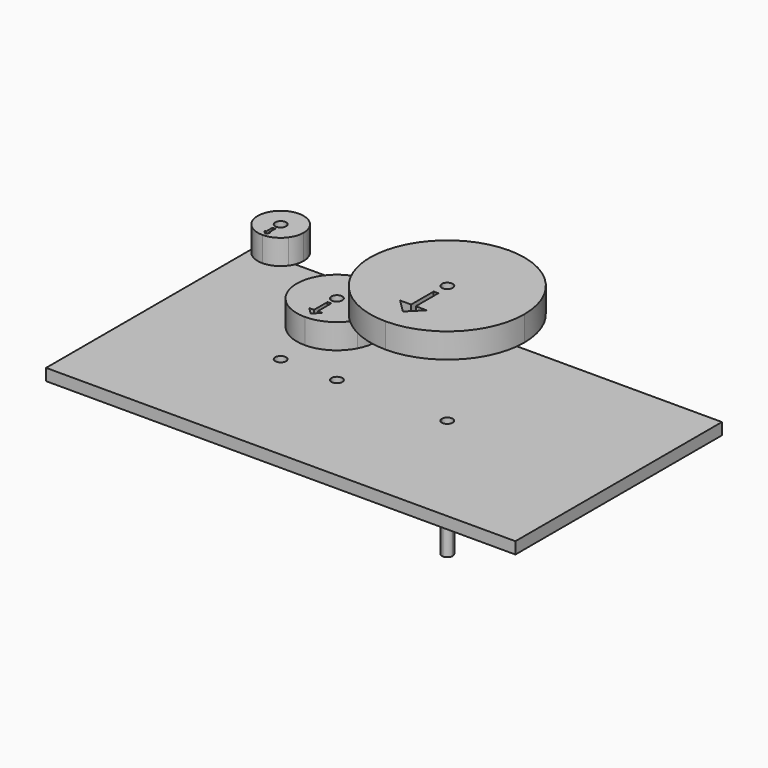
from build123d import *

# Parameters (mm, degrees)
F0_W     = 127
F0_H     = 69.85
F0_W_2   = 0.381
F0_H_2   = 2.1499743879
F0_W_3   = 0.508
F0_H_3   = 4.5539487758
F0_W_4   = 0.635
F0_H_4   = 7.6400852611
F1_DEPTH = 3.175
F2_START = 25.4
F2_DEPTH = 6.731
F3_START = 25.4
F3_DEPTH = 6.731
F4_START = 12.7
F4_DEPTH = 6.731
F5_START = -6.35
F5_DEPTH = 25.4


with BuildPart() as f1:
    # F0 (on Top) → F1 (new body)
    with BuildSketch(Plane.XY):
        with Locations((-6.0705711842, 4.3084023254)):
            Rectangle(F0_W, F0_H)
        with BuildLine():
            ThreePointArc((-33.3352696088, -2.7570773477), (-38.8647330515, 6.2396796318), (-28.3404857607, 7.1096342711))
            ThreePointArc((-28.3404857607, 7.1096342711), (-18.8470887176, 14.2746971722), (-8.4821471598, 8.4411133425))
            ThreePointArc((-8.4821471598, 8.4411133425), (14.2684886182, 24.1284571428), (32.5904303912, 3.4405226523))
            ThreePointArc((32.5904303912, 3.4405226523), (26.4863306859, -11.2960776424), (11.7497303912, -17.4001773477))
            ThreePointArc((11.7497303912, -17.4001773477), (-1.0978173533, -12.9690871372), (-8.4821471598, -1.5600680379))
            ThreePointArc((-8.4821471598, -1.5600680379), (-12.4811612862, -5.8386458519), (-18.1206696088, -7.4179773477))
            ThreePointArc((-18.1206696088, -7.4179773477), (-24.3683081122, -5.4405828747), (-28.3404857607, -0.2285889665))
            ThreePointArc((-28.3404857607, -0.2285889665), (-30.5361126293, -2.0889407904), (-33.3352696088, -2.7570773477))
        make_face(mode=Mode.SUBTRACT)
        with BuildLine():
            Line((10.2765303912, 3.4405226523), (-7.2621696088, 3.4405226523))
            ThreePointArc((-7.2621696088, 3.4405226523), (-7.5715720582, 0.8668942566), (-8.4821471598, -1.5600680379))
            ThreePointArc((-8.4821471598, -1.5600680379), (-1.0978173533, -12.9690871372), (11.7497303912, -17.4001773477))
            Line((11.7497303912, -17.4001773477), (11.7497303912, -11.6016650572))
            Line((11.7497303912, -11.6016650572), (11.1147303912, -11.6016650572))
            Line((11.1147303912, -11.6016650572), (11.1147303912, -10.9666650572))
            Line((11.1147303912, -10.9666650572), (8.1576279428, -8.0095626088))
            Line((8.1576279428, -8.0095626088), (11.1147303912, -8.0095626088))
            Line((11.1147303912, -8.0095626088), (11.1147303912, -0.3694773477))
            Line((11.1147303912, -0.3694773477), (11.7497303912, -0.3694773477))
            Line((11.7497303912, -0.3694773477), (11.7497303912, 1.9673226523))
            ThreePointArc((11.7497303912, 1.9673226523), (10.7080206812, 2.3988129423), (10.2765303912, 3.4405226523))
        make_face()
        with BuildLine():
            ThreePointArc((32.5904303912, 3.4405226523), (14.2684886182, 24.1284571428), (-8.4821471598, 8.4411133425))
            ThreePointArc((-8.4821471598, 8.4411133425), (-7.5715720582, 6.0141510479), (-7.2621696088, 3.4405226523))
            Line((-7.2621696088, 3.4405226523), (10.2765303912, 3.4405226523))
            ThreePointArc((10.2765303912, 3.4405226523), (11.7497303912, 4.9137226523), (13.2229303912, 3.4405226523))
            ThreePointArc((13.2229303912, 3.4405226523), (12.7914401012, 2.3988129423), (11.7497303912, 1.9673226523))
            Line((11.7497303912, 1.9673226523), (11.7497303912, -0.3694773477))
            Line((11.7497303912, -0.3694773477), (12.3847303912, -0.3694773477))
            Line((12.3847303912, -0.3694773477), (12.3847303912, -8.0095626088))
            Line((12.3847303912, -8.0095626088), (15.3418328396, -8.0095626088))
            Line((15.3418328396, -8.0095626088), (12.3847303912, -10.9666650572))
            Line((12.3847303912, -10.9666650572), (12.3847303912, -11.6016650572))
            Line((12.3847303912, -11.6016650572), (11.7497303912, -11.6016650572))
            Line((11.7497303912, -11.6016650572), (11.7497303912, -17.4001773477))
            ThreePointArc((11.7497303912, -17.4001773477), (26.4863306859, -11.2960776424), (32.5904303912, 3.4405226523))
        make_face()
        with BuildLine():
            ThreePointArc((-28.3404857607, 7.1096342711), (-27.4460456303, 5.3711408672), (-27.1376696088, 3.4405226523))
            Line((-27.1376696088, 3.4405226523), (-19.5938696088, 3.4405226523))
            ThreePointArc((-19.5938696088, 3.4405226523), (-18.1206696088, 4.9137226523), (-16.6474696088, 3.4405226523))
            Line((-16.6474696088, 3.4405226523), (-9.0909696088, 3.4405226523))
            ThreePointArc((-9.0909696088, 3.4405226523), (-8.9382040993, 5.9592808793), (-8.4821471598, 8.4411133425))
            ThreePointArc((-8.4821471598, 8.4411133425), (-18.8470887176, 14.2746971722), (-28.3404857607, 7.1096342711))
        make_face()
        with BuildLine():
            ThreePointArc((-33.3352696088, 1.9673226523), (-34.3769793188, 4.4822323623), (-31.8620696088, 3.4405226523))
            Line((-31.8620696088, 3.4405226523), (-28.9791696088, 3.4405226523))
            ThreePointArc((-28.9791696088, 3.4405226523), (-28.8183071035, 5.3026650427), (-28.3404857607, 7.1096342711))
            ThreePointArc((-28.3404857607, 7.1096342711), (-38.8647330515, 6.2396796318), (-33.3352696088, -2.7570773477))
            Line((-33.3352696088, -2.7570773477), (-33.3352696088, -1.8934773477))
            Line((-33.3352696088, -1.8934773477), (-33.3352696088, -1.8828803738))
            Line((-33.3352696088, -1.8828803738), (-34.222698247, -0.9954517356))
            Line((-34.222698247, -0.9954517356), (-33.7162696088, -0.9954517356))
            Line((-33.7162696088, -0.9954517356), (-33.7162696088, 1.1545226523))
            Line((-33.7162696088, 1.1545226523), (-33.3352696088, 1.1545226523))
            Line((-33.3352696088, 1.1545226523), (-33.3352696088, 1.9673226523))
        make_face()
        with BuildLine():
            Line((-28.9791696088, 3.4405226523), (-31.8620696088, 3.4405226523))
            ThreePointArc((-31.8620696088, 3.4405226523), (-32.2935598988, 2.3988129423), (-33.3352696088, 1.9673226523))
            Line((-33.3352696088, 1.9673226523), (-33.3352696088, 1.1545226523))
            Line((-33.3352696088, 1.1545226523), (-32.9542696088, 1.1545226523))
            Line((-32.9542696088, 1.1545226523), (-32.9542696088, -0.9954517356))
            Line((-32.9542696088, -0.9954517356), (-32.4266470228, -0.9954517356))
            Line((-32.4266470228, -0.9954517356), (-32.9542696088, -1.5230743216))
            Line((-32.9542696088, -1.5230743216), (-32.9542696088, -1.8934773477))
            Line((-32.9542696088, -1.8934773477), (-33.3246726349, -1.8934773477))
            Line((-33.3246726349, -1.8934773477), (-33.3352696088, -1.8934773477))
            Line((-33.3352696088, -1.8934773477), (-33.3352696088, -2.7570773477))
            ThreePointArc((-33.3352696088, -2.7570773477), (-30.5361126293, -2.0889407904), (-28.3404857607, -0.2285889665))
            ThreePointArc((-28.3404857607, -0.2285889665), (-28.8183071035, 1.5783802619), (-28.9791696088, 3.4405226523))
        make_face()
        with BuildLine():
            Line((-27.1376696088, 3.4405226523), (-28.9791696088, 3.4405226523))
            ThreePointArc((-28.9791696088, 3.4405226523), (-28.8183071035, 1.5783802619), (-28.3404857607, -0.2285889665))
            ThreePointArc((-28.3404857607, -0.2285889665), (-27.4460456303, 1.5099044374), (-27.1376696088, 3.4405226523))
        make_face()
        with BuildLine():
            ThreePointArc((-28.3404857607, 7.1096342711), (-28.8183071035, 5.3026650427), (-28.9791696088, 3.4405226523))
            Line((-28.9791696088, 3.4405226523), (-27.1376696088, 3.4405226523))
            ThreePointArc((-27.1376696088, 3.4405226523), (-27.4460456303, 5.3711408672), (-28.3404857607, 7.1096342711))
        make_face()
        with BuildLine():
            Line((-7.2621696088, 3.4405226523), (-9.0909696088, 3.4405226523))
            ThreePointArc((-9.0909696088, 3.4405226523), (-8.9382040993, 0.9217644253), (-8.4821471598, -1.5600680379))
            ThreePointArc((-8.4821471598, -1.5600680379), (-7.5715720582, 0.8668942566), (-7.2621696088, 3.4405226523))
        make_face()
        with BuildLine():
            ThreePointArc((-7.2621696088, 3.4405226523), (-7.5715720582, 6.0141510479), (-8.4821471598, 8.4411133425))
            ThreePointArc((-8.4821471598, 8.4411133425), (-8.9382040993, 5.9592808793), (-9.0909696088, 3.4405226523))
            Line((-9.0909696088, 3.4405226523), (-7.2621696088, 3.4405226523))
        make_face()
        with Locations((-33.5257696088, 0.0795354583)):
            Rectangle(F0_W_2, F0_H_2)
        Polygon((-33.3352696088, -1.8828803738), (-33.3352696088, -0.9954517356), (-33.7162696088, -0.9954517356), (-34.222698247, -0.9954517356), align=None)
        with Locations((-33.1447696088, 0.0795354583)):
            Rectangle(F0_W_2, F0_H_2)
        Polygon((-32.9542696088, -0.9954517356), (-33.3352696088, -0.9954517356), (-33.3352696088, -1.8828803738), (-33.3246726349, -1.8934773477), (-32.9542696088, -1.5230743216), align=None)
        Polygon((-32.4266470228, -0.9954517356), (-32.9542696088, -0.9954517356), (-32.9542696088, -1.5230743216), align=None)
        Polygon((-32.9542696088, -1.5230743216), (-33.3246726349, -1.8934773477), (-32.9542696088, -1.8934773477), align=None)
        with BuildLine():
            Line((-28.9791696088, 3.4405226523), (-31.8620696088, 3.4405226523))
            ThreePointArc((-31.8620696088, 3.4405226523), (-32.2935598988, 2.3988129423), (-33.3352696088, 1.9673226523))
            Line((-33.3352696088, 1.9673226523), (-33.3352696088, 1.1545226523))
            Line((-33.3352696088, 1.1545226523), (-32.9542696088, 1.1545226523))
            Line((-32.9542696088, 1.1545226523), (-32.9542696088, -0.9954517356))
            Line((-32.9542696088, -0.9954517356), (-32.4266470228, -0.9954517356))
            Line((-32.4266470228, -0.9954517356), (-32.9542696088, -1.5230743216))
            Line((-32.9542696088, -1.5230743216), (-32.9542696088, -1.8934773477))
            Line((-32.9542696088, -1.8934773477), (-33.3246726349, -1.8934773477))
            Line((-33.3246726349, -1.8934773477), (-33.3352696088, -1.8934773477))
            Line((-33.3352696088, -1.8934773477), (-33.3352696088, -2.7570773477))
            ThreePointArc((-33.3352696088, -2.7570773477), (-30.5361126293, -2.0889407904), (-28.3404857607, -0.2285889665))
            ThreePointArc((-28.3404857607, -0.2285889665), (-28.8183071035, 1.5783802619), (-28.9791696088, 3.4405226523))
        make_face()
        with BuildLine():
            Line((-18.1206696088, -5.4494773477), (-18.1206696088, -7.4179773477))
            ThreePointArc((-18.1206696088, -7.4179773477), (-12.4811612862, -5.8386458519), (-8.4821471598, -1.5600680379))
            ThreePointArc((-8.4821471598, -1.5600680379), (-8.9382040993, 0.9217644253), (-9.0909696088, 3.4405226523))
            Line((-9.0909696088, 3.4405226523), (-16.6474696088, 3.4405226523))
            ThreePointArc((-16.6474696088, 3.4405226523), (-17.0789598988, 2.3988129423), (-18.1206696088, 1.9673226523))
            Line((-18.1206696088, 1.9673226523), (-18.1206696088, 0.9005226523))
            Line((-18.1206696088, 0.9005226523), (-17.6126696088, 0.9005226523))
            Line((-17.6126696088, 0.9005226523), (-17.6126696088, -3.6534261235))
            Line((-17.6126696088, -3.6534261235), (-16.3246183846, -3.6534261235))
            Line((-16.3246183846, -3.6534261235), (-17.6126696088, -4.9414773477))
            Line((-17.6126696088, -4.9414773477), (-17.6126696088, -5.4494773477))
            Line((-17.6126696088, -5.4494773477), (-18.1206696088, -5.4494773477))
        make_face()
        with Locations((-18.3746696088, -1.3764517356)):
            Rectangle(F0_W_3, F0_H_3)
        with Locations((-17.8666696088, -1.3764517356)):
            Rectangle(F0_W_3, F0_H_3)
        Polygon((-19.916720833, -3.6534261235), (-18.6286696088, -4.9414773477), (-18.6286696088, -3.6534261235), align=None)
        Polygon((-18.6286696088, -4.9414773477), (-18.1206696088, -5.4494773477), (-18.1206696088, -3.6534261235), (-18.6286696088, -3.6534261235), align=None)
        Polygon((-18.1206696088, -3.6534261235), (-18.1206696088, -5.4494773477), (-17.6126696088, -4.9414773477), (-17.6126696088, -3.6534261235), align=None)
        Polygon((-17.6126696088, -3.6534261235), (-17.6126696088, -4.9414773477), (-16.3246183846, -3.6534261235), align=None)
        Polygon((-17.6126696088, -4.9414773477), (-18.1206696088, -5.4494773477), (-17.6126696088, -5.4494773477), align=None)
        Polygon((-18.6286696088, -5.4494773477), (-18.1206696088, -5.4494773477), (-18.6286696088, -4.9414773477), align=None)
        with BuildLine():
            Line((-19.5938696088, 3.4405226523), (-27.1376696088, 3.4405226523))
            ThreePointArc((-27.1376696088, 3.4405226523), (-27.4460456303, 1.5099044374), (-28.3404857607, -0.2285889665))
            ThreePointArc((-28.3404857607, -0.2285889665), (-24.3683081122, -5.4405828747), (-18.1206696088, -7.4179773477))
            Line((-18.1206696088, -7.4179773477), (-18.1206696088, -5.4494773477))
            Line((-18.1206696088, -5.4494773477), (-18.6286696088, -5.4494773477))
            Line((-18.6286696088, -5.4494773477), (-18.6286696088, -4.9414773477))
            Line((-18.6286696088, -4.9414773477), (-19.916720833, -3.6534261235))
            Line((-19.916720833, -3.6534261235), (-18.6286696088, -3.6534261235))
            Line((-18.6286696088, -3.6534261235), (-18.6286696088, 0.9005226523))
            Line((-18.6286696088, 0.9005226523), (-18.1206696088, 0.9005226523))
            Line((-18.1206696088, 0.9005226523), (-18.1206696088, 1.9673226523))
            ThreePointArc((-18.1206696088, 1.9673226523), (-19.1623793188, 2.3988129423), (-19.5938696088, 3.4405226523))
        make_face()
        Polygon((11.7497303912, -8.0095626088), (11.7497303912, -11.6016650572), (12.3847303912, -10.9666650572), (12.3847303912, -8.0095626088), align=None)
        Polygon((12.3847303912, -8.0095626088), (12.3847303912, -10.9666650572), (15.3418328396, -8.0095626088), align=None)
        Polygon((11.1147303912, -10.9666650572), (11.7497303912, -11.6016650572), (11.7497303912, -8.0095626088), (11.1147303912, -8.0095626088), align=None)
        Polygon((8.1576279428, -8.0095626088), (11.1147303912, -10.9666650572), (11.1147303912, -8.0095626088), align=None)
        with Locations((12.0672303912, -4.1895199783)):
            Rectangle(F0_W_4, F0_H_4)
        with Locations((11.4322303912, -4.1895199783)):
            Rectangle(F0_W_4, F0_H_4)
        Polygon((12.3847303912, -10.9666650572), (11.7497303912, -11.6016650572), (12.3847303912, -11.6016650572), align=None)
        Polygon((11.1147303912, -11.6016650572), (11.7497303912, -11.6016650572), (11.1147303912, -10.9666650572), align=None)
    extrude(amount=-F1_DEPTH)


with BuildPart() as f2:
    # F0 (on Top) → F2 (new body)
    with BuildSketch(Plane.XY.offset(F2_START)):
        with BuildLine():
            Line((10.2765303912, 3.4405226523), (-7.2621696088, 3.4405226523))
            ThreePointArc((-7.2621696088, 3.4405226523), (-7.5715720582, 0.8668942566), (-8.4821471598, -1.5600680379))
            ThreePointArc((-8.4821471598, -1.5600680379), (-1.0978173533, -12.9690871372), (11.7497303912, -17.4001773477))
            Line((11.7497303912, -17.4001773477), (11.7497303912, -11.6016650572))
            Line((11.7497303912, -11.6016650572), (11.1147303912, -11.6016650572))
            Line((11.1147303912, -11.6016650572), (11.1147303912, -10.9666650572))
            Line((11.1147303912, -10.9666650572), (8.1576279428, -8.0095626088))
            Line((8.1576279428, -8.0095626088), (11.1147303912, -8.0095626088))
            Line((11.1147303912, -8.0095626088), (11.1147303912, -0.3694773477))
            Line((11.1147303912, -0.3694773477), (11.7497303912, -0.3694773477))
            Line((11.7497303912, -0.3694773477), (11.7497303912, 1.9673226523))
            ThreePointArc((11.7497303912, 1.9673226523), (10.7080206812, 2.3988129423), (10.2765303912, 3.4405226523))
        make_face()
        with BuildLine():
            Line((-7.2621696088, 3.4405226523), (-9.0909696088, 3.4405226523))
            ThreePointArc((-9.0909696088, 3.4405226523), (-8.9382040993, 0.9217644253), (-8.4821471598, -1.5600680379))
            ThreePointArc((-8.4821471598, -1.5600680379), (-7.5715720582, 0.8668942566), (-7.2621696088, 3.4405226523))
        make_face()
        with BuildLine():
            ThreePointArc((-7.2621696088, 3.4405226523), (-7.5715720582, 6.0141510479), (-8.4821471598, 8.4411133425))
            ThreePointArc((-8.4821471598, 8.4411133425), (-8.9382040993, 5.9592808793), (-9.0909696088, 3.4405226523))
            Line((-9.0909696088, 3.4405226523), (-7.2621696088, 3.4405226523))
        make_face()
        Polygon((12.3847303912, -10.9666650572), (11.7497303912, -11.6016650572), (12.3847303912, -11.6016650572), align=None)
        Polygon((11.1147303912, -11.6016650572), (11.7497303912, -11.6016650572), (11.1147303912, -10.9666650572), align=None)
        with BuildLine():
            ThreePointArc((32.5904303912, 3.4405226523), (14.2684886182, 24.1284571428), (-8.4821471598, 8.4411133425))
            ThreePointArc((-8.4821471598, 8.4411133425), (-7.5715720582, 6.0141510479), (-7.2621696088, 3.4405226523))
            Line((-7.2621696088, 3.4405226523), (10.2765303912, 3.4405226523))
            ThreePointArc((10.2765303912, 3.4405226523), (11.7497303912, 4.9137226523), (13.2229303912, 3.4405226523))
            ThreePointArc((13.2229303912, 3.4405226523), (12.7914401012, 2.3988129423), (11.7497303912, 1.9673226523))
            Line((11.7497303912, 1.9673226523), (11.7497303912, -0.3694773477))
            Line((11.7497303912, -0.3694773477), (12.3847303912, -0.3694773477))
            Line((12.3847303912, -0.3694773477), (12.3847303912, -8.0095626088))
            Line((12.3847303912, -8.0095626088), (15.3418328396, -8.0095626088))
            Line((15.3418328396, -8.0095626088), (12.3847303912, -10.9666650572))
            Line((12.3847303912, -10.9666650572), (12.3847303912, -11.6016650572))
            Line((12.3847303912, -11.6016650572), (11.7497303912, -11.6016650572))
            Line((11.7497303912, -11.6016650572), (11.7497303912, -17.4001773477))
            ThreePointArc((11.7497303912, -17.4001773477), (26.4863306859, -11.2960776424), (32.5904303912, 3.4405226523))
        make_face()
    extrude(amount=F2_DEPTH)


with BuildPart() as f3:
    # F0 (on Top) → F3 (new body)
    with BuildSketch(Plane.XY.offset(F3_START)):
        with BuildLine():
            ThreePointArc((-28.3404857607, 7.1096342711), (-28.8183071035, 5.3026650427), (-28.9791696088, 3.4405226523))
            Line((-28.9791696088, 3.4405226523), (-27.1376696088, 3.4405226523))
            ThreePointArc((-27.1376696088, 3.4405226523), (-27.4460456303, 5.3711408672), (-28.3404857607, 7.1096342711))
        make_face()
        with BuildLine():
            Line((-27.1376696088, 3.4405226523), (-28.9791696088, 3.4405226523))
            ThreePointArc((-28.9791696088, 3.4405226523), (-28.8183071035, 1.5783802619), (-28.3404857607, -0.2285889665))
            ThreePointArc((-28.3404857607, -0.2285889665), (-27.4460456303, 1.5099044374), (-27.1376696088, 3.4405226523))
        make_face()
        with BuildLine():
            ThreePointArc((-33.3352696088, 1.9673226523), (-34.3769793188, 4.4822323623), (-31.8620696088, 3.4405226523))
            Line((-31.8620696088, 3.4405226523), (-28.9791696088, 3.4405226523))
            ThreePointArc((-28.9791696088, 3.4405226523), (-28.8183071035, 5.3026650427), (-28.3404857607, 7.1096342711))
            ThreePointArc((-28.3404857607, 7.1096342711), (-38.8647330515, 6.2396796318), (-33.3352696088, -2.7570773477))
            Line((-33.3352696088, -2.7570773477), (-33.3352696088, -1.8934773477))
            Line((-33.3352696088, -1.8934773477), (-33.3352696088, -1.8828803738))
            Line((-33.3352696088, -1.8828803738), (-34.222698247, -0.9954517356))
            Line((-34.222698247, -0.9954517356), (-33.7162696088, -0.9954517356))
            Line((-33.7162696088, -0.9954517356), (-33.7162696088, 1.1545226523))
            Line((-33.7162696088, 1.1545226523), (-33.3352696088, 1.1545226523))
            Line((-33.3352696088, 1.1545226523), (-33.3352696088, 1.9673226523))
        make_face()
        Polygon((-32.9542696088, -1.5230743216), (-33.3246726349, -1.8934773477), (-32.9542696088, -1.8934773477), align=None)
        with BuildLine():
            Line((-28.9791696088, 3.4405226523), (-31.8620696088, 3.4405226523))
            ThreePointArc((-31.8620696088, 3.4405226523), (-32.2935598988, 2.3988129423), (-33.3352696088, 1.9673226523))
            Line((-33.3352696088, 1.9673226523), (-33.3352696088, 1.1545226523))
            Line((-33.3352696088, 1.1545226523), (-32.9542696088, 1.1545226523))
            Line((-32.9542696088, 1.1545226523), (-32.9542696088, -0.9954517356))
            Line((-32.9542696088, -0.9954517356), (-32.4266470228, -0.9954517356))
            Line((-32.4266470228, -0.9954517356), (-32.9542696088, -1.5230743216))
            Line((-32.9542696088, -1.5230743216), (-32.9542696088, -1.8934773477))
            Line((-32.9542696088, -1.8934773477), (-33.3246726349, -1.8934773477))
            Line((-33.3246726349, -1.8934773477), (-33.3352696088, -1.8934773477))
            Line((-33.3352696088, -1.8934773477), (-33.3352696088, -2.7570773477))
            ThreePointArc((-33.3352696088, -2.7570773477), (-30.5361126293, -2.0889407904), (-28.3404857607, -0.2285889665))
            ThreePointArc((-28.3404857607, -0.2285889665), (-28.8183071035, 1.5783802619), (-28.9791696088, 3.4405226523))
        make_face()
    extrude(amount=F3_DEPTH)


with BuildPart() as f4:
    # F0 (on Top) → F4 (new body)
    with BuildSketch(Plane.XY.offset(F4_START)):
        with BuildLine():
            ThreePointArc((-7.2621696088, 3.4405226523), (-7.5715720582, 6.0141510479), (-8.4821471598, 8.4411133425))
            ThreePointArc((-8.4821471598, 8.4411133425), (-8.9382040993, 5.9592808793), (-9.0909696088, 3.4405226523))
            Line((-9.0909696088, 3.4405226523), (-7.2621696088, 3.4405226523))
        make_face()
        with BuildLine():
            Line((-7.2621696088, 3.4405226523), (-9.0909696088, 3.4405226523))
            ThreePointArc((-9.0909696088, 3.4405226523), (-8.9382040993, 0.9217644253), (-8.4821471598, -1.5600680379))
            ThreePointArc((-8.4821471598, -1.5600680379), (-7.5715720582, 0.8668942566), (-7.2621696088, 3.4405226523))
        make_face()
        with BuildLine():
            ThreePointArc((-28.3404857607, 7.1096342711), (-27.4460456303, 5.3711408672), (-27.1376696088, 3.4405226523))
            Line((-27.1376696088, 3.4405226523), (-19.5938696088, 3.4405226523))
            ThreePointArc((-19.5938696088, 3.4405226523), (-18.1206696088, 4.9137226523), (-16.6474696088, 3.4405226523))
            Line((-16.6474696088, 3.4405226523), (-9.0909696088, 3.4405226523))
            ThreePointArc((-9.0909696088, 3.4405226523), (-8.9382040993, 5.9592808793), (-8.4821471598, 8.4411133425))
            ThreePointArc((-8.4821471598, 8.4411133425), (-18.8470887176, 14.2746971722), (-28.3404857607, 7.1096342711))
        make_face()
        with BuildLine():
            Line((-19.5938696088, 3.4405226523), (-27.1376696088, 3.4405226523))
            ThreePointArc((-27.1376696088, 3.4405226523), (-27.4460456303, 1.5099044374), (-28.3404857607, -0.2285889665))
            ThreePointArc((-28.3404857607, -0.2285889665), (-24.3683081122, -5.4405828747), (-18.1206696088, -7.4179773477))
            Line((-18.1206696088, -7.4179773477), (-18.1206696088, -5.4494773477))
            Line((-18.1206696088, -5.4494773477), (-18.6286696088, -5.4494773477))
            Line((-18.6286696088, -5.4494773477), (-18.6286696088, -4.9414773477))
            Line((-18.6286696088, -4.9414773477), (-19.916720833, -3.6534261235))
            Line((-19.916720833, -3.6534261235), (-18.6286696088, -3.6534261235))
            Line((-18.6286696088, -3.6534261235), (-18.6286696088, 0.9005226523))
            Line((-18.6286696088, 0.9005226523), (-18.1206696088, 0.9005226523))
            Line((-18.1206696088, 0.9005226523), (-18.1206696088, 1.9673226523))
            ThreePointArc((-18.1206696088, 1.9673226523), (-19.1623793188, 2.3988129423), (-19.5938696088, 3.4405226523))
        make_face()
        with BuildLine():
            ThreePointArc((-28.3404857607, 7.1096342711), (-28.8183071035, 5.3026650427), (-28.9791696088, 3.4405226523))
            Line((-28.9791696088, 3.4405226523), (-27.1376696088, 3.4405226523))
            ThreePointArc((-27.1376696088, 3.4405226523), (-27.4460456303, 5.3711408672), (-28.3404857607, 7.1096342711))
        make_face()
        with BuildLine():
            Line((-27.1376696088, 3.4405226523), (-28.9791696088, 3.4405226523))
            ThreePointArc((-28.9791696088, 3.4405226523), (-28.8183071035, 1.5783802619), (-28.3404857607, -0.2285889665))
            ThreePointArc((-28.3404857607, -0.2285889665), (-27.4460456303, 1.5099044374), (-27.1376696088, 3.4405226523))
        make_face()
        with BuildLine():
            Line((-18.1206696088, -5.4494773477), (-18.1206696088, -7.4179773477))
            ThreePointArc((-18.1206696088, -7.4179773477), (-12.4811612862, -5.8386458519), (-8.4821471598, -1.5600680379))
            ThreePointArc((-8.4821471598, -1.5600680379), (-8.9382040993, 0.9217644253), (-9.0909696088, 3.4405226523))
            Line((-9.0909696088, 3.4405226523), (-16.6474696088, 3.4405226523))
            ThreePointArc((-16.6474696088, 3.4405226523), (-17.0789598988, 2.3988129423), (-18.1206696088, 1.9673226523))
            Line((-18.1206696088, 1.9673226523), (-18.1206696088, 0.9005226523))
            Line((-18.1206696088, 0.9005226523), (-17.6126696088, 0.9005226523))
            Line((-17.6126696088, 0.9005226523), (-17.6126696088, -3.6534261235))
            Line((-17.6126696088, -3.6534261235), (-16.3246183846, -3.6534261235))
            Line((-16.3246183846, -3.6534261235), (-17.6126696088, -4.9414773477))
            Line((-17.6126696088, -4.9414773477), (-17.6126696088, -5.4494773477))
            Line((-17.6126696088, -5.4494773477), (-18.1206696088, -5.4494773477))
        make_face()
        Polygon((-17.6126696088, -4.9414773477), (-18.1206696088, -5.4494773477), (-17.6126696088, -5.4494773477), align=None)
        Polygon((-18.6286696088, -5.4494773477), (-18.1206696088, -5.4494773477), (-18.6286696088, -4.9414773477), align=None)
    extrude(amount=F4_DEPTH)


with BuildPart() as f5:
    # F0 (on Top) → F5 (new body)
    with BuildSketch(Plane.XY.offset(F5_START)):
        with BuildLine():
            Line((11.7497303912, 3.4405226523), (10.2765303912, 3.4405226523))
            ThreePointArc((10.2765303912, 3.4405226523), (10.7080206812, 2.3988129423), (11.7497303912, 1.9673226523))
            Line((11.7497303912, 1.9673226523), (11.7497303912, 3.4405226523))
        make_face()
        with BuildLine():
            ThreePointArc((13.2229303912, 3.4405226523), (11.7497303912, 4.9137226523), (10.2765303912, 3.4405226523))
            Line((10.2765303912, 3.4405226523), (11.7497303912, 3.4405226523))
            Line((11.7497303912, 3.4405226523), (11.7497303912, 1.9673226523))
            ThreePointArc((11.7497303912, 1.9673226523), (12.7914401012, 2.3988129423), (13.2229303912, 3.4405226523))
        make_face()
    extrude(amount=-F5_DEPTH)


solid = Compound([f1.part, f2.part, f3.part, f4.part, f5.part])
